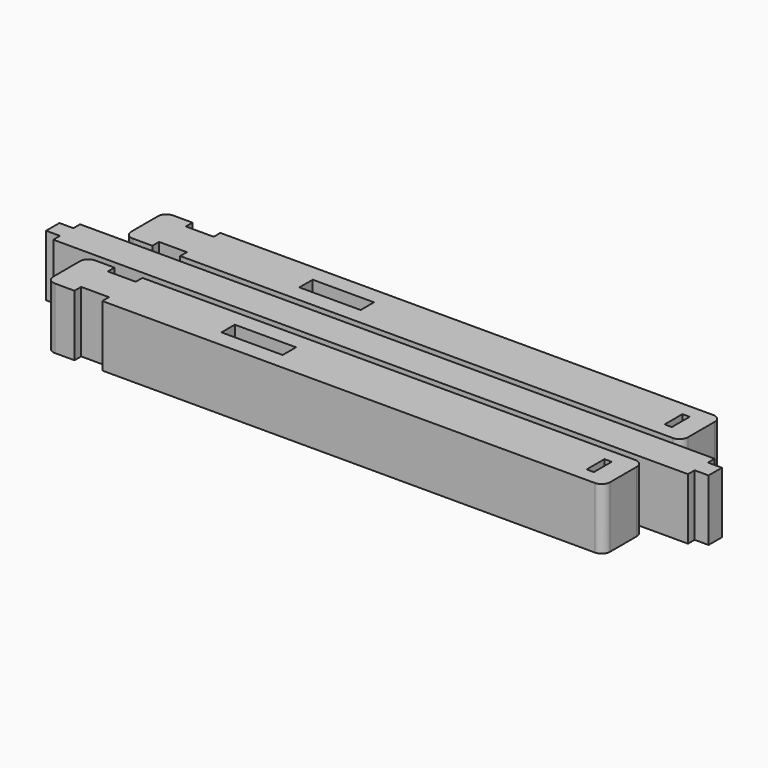
from build123d import *

# Parameters (mm, degrees)
SKETCH006_W     = 200
SKETCH006_H     = 18
PAD004_DEPTH    = 22
SKETCH007_W     = 2.6
SKETCH007_H     = 8
POCKET002_DEPTH = 16
SKETCH008_W     = 22
SKETCH008_H     = 6
POCKET003_DEPTH = 5
SKETCH009_W     = 10
SKETCH009_H     = 3
POCKET004_DEPTH = 22
FILLET_R        = 3
SKETCH010_W     = 200
SKETCH010_H     = 18
PAD005_DEPTH    = 22
SKETCH011_W     = 2.6
SKETCH011_H     = 8
POCKET005_DEPTH = 16
SKETCH012_W     = 22
SKETCH012_H     = 6
POCKET006_DEPTH = 5
SKETCH013_W     = 10
SKETCH013_H     = 3
POCKET007_DEPTH = 22
FILLET001_R     = 3
SKETCH004_W     = 238
SKETCH004_H     = 12
PAD003_DEPTH    = 22
SKETCH005_W     = 5
SKETCH005_H     = 3
POCKET001_DEPTH = 22


with BuildPart() as body004:
    # Sketch006 → Pad004 (new body)
    with BuildSketch(Plane.XY):
        with Locations((0, 17.5)):
            Rectangle(SKETCH006_W, SKETCH006_H)
    extrude(amount=PAD004_DEPTH)

    # Sketch007 (on Face6 of Pad004) → Pocket002 (cut)
    with BuildSketch(Plane.XY.offset(22)):
        with Locations((91.3, 17.5)):
            Rectangle(SKETCH007_W, SKETCH007_H)
    extrude(amount=-POCKET002_DEPTH, mode=Mode.SUBTRACT)

    # Sketch008 (on Face5 of Pocket002) → Pocket003 (cut)
    with BuildSketch(Plane.XY.offset(22)):
        with Locations((-31, 17.5)):
            Rectangle(SKETCH008_W, SKETCH008_H)
    extrude(amount=-POCKET003_DEPTH, mode=Mode.SUBTRACT)

    # Sketch009 (on Face5 of Pocket003) → Pocket004 (cut)
    with BuildSketch(Plane.XY.offset(22)):
        with Locations((-85, 25)):
            Rectangle(SKETCH009_W, SKETCH009_H)
        with Locations((-85, 10)):
            Rectangle(SKETCH009_W, SKETCH009_H)
    extrude(amount=-POCKET004_DEPTH, mode=Mode.SUBTRACT)

    # Fillet
    fillet_edges = [body004.edges().sort_by_distance(p)[0] for p in [
        (-100, 8.5, 11),
        (-100, 26.5, 11),
        (100, 8.5, 11),
        (100, 26.5, 11),
    ]]
    fillet(fillet_edges, radius=FILLET_R)


with BuildPart() as body005:
    # Sketch010 → Pad005 (new body)
    with BuildSketch(Plane.XY):
        with Locations((0, 17.5)):
            Rectangle(SKETCH010_W, SKETCH010_H)
    extrude(amount=PAD005_DEPTH)

    # Sketch011 (on Face6 of Pad005) → Pocket005 (cut)
    with BuildSketch(Plane.XY.offset(22)):
        with Locations((91.3, 17.5)):
            Rectangle(SKETCH011_W, SKETCH011_H)
    extrude(amount=-POCKET005_DEPTH, mode=Mode.SUBTRACT)

    # Sketch012 (on Face5 of Pocket005) → Pocket006 (cut)
    with BuildSketch(Plane.XY.offset(22)):
        with Locations((-31, 17.5)):
            Rectangle(SKETCH012_W, SKETCH012_H)
    extrude(amount=-POCKET006_DEPTH, mode=Mode.SUBTRACT)

    # Sketch013 (on Face5 of Pocket006) → Pocket007 (cut)
    with BuildSketch(Plane.XY.offset(22)):
        with Locations((-85, 25)):
            Rectangle(SKETCH013_W, SKETCH013_H)
        with Locations((-85, 10)):
            Rectangle(SKETCH013_W, SKETCH013_H)
    extrude(amount=-POCKET007_DEPTH, mode=Mode.SUBTRACT)

    # Fillet001
    fillet001_edges = [body005.edges().sort_by_distance(p)[0] for p in [
        (-100, 8.5, 11),
        (-100, 26.5, 11),
        (100, 8.5, 11),
        (100, 26.5, 11),
    ]]
    fillet(fillet001_edges, radius=FILLET001_R)


with BuildPart() as body005_1:
    # Body005 placement: moved
    add(body005.part.moved(Location((0, -35, 0))))


with BuildPart() as clone002:
    # Sketch004 → Pad003 (new body)
    with BuildSketch(Plane.XY):
        Rectangle(SKETCH004_W, SKETCH004_H)
    extrude(amount=PAD003_DEPTH)

    # Sketch005 (on Face6 of Pad003) → Pocket001 (cut)
    with BuildSketch(Plane.XY.offset(22)):
        with Locations((-116.5, 4.5)):
            Rectangle(SKETCH005_W, SKETCH005_H)
        with Locations((-116.5, -4.5)):
            Rectangle(SKETCH005_W, SKETCH005_H)
        with Locations((116.5, 4.5)):
            Rectangle(SKETCH005_W, SKETCH005_H)
        with Locations((116.5, -4.5)):
            Rectangle(SKETCH005_W, SKETCH005_H)
    extrude(amount=-POCKET001_DEPTH, mode=Mode.SUBTRACT)

    # Fusion001: union Body004, Body005
    add(body004.part)
    add(body005_1.part)


with BuildPart() as clone002_1:
    # Fusion001 placement: moved
    add(clone002.part.moved(Location((0, 0, -22))))


solid = clone002_1.part
